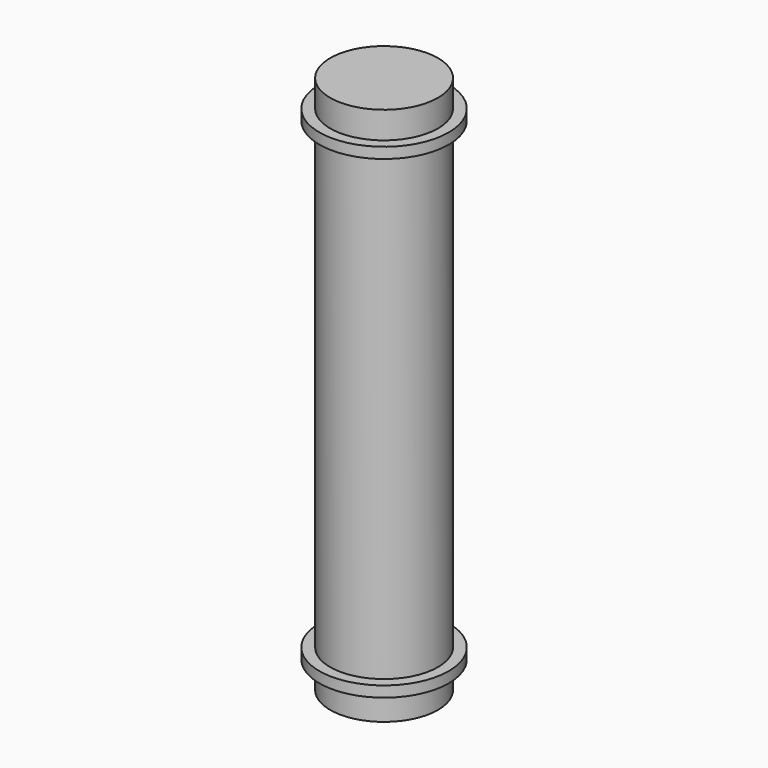
from build123d import *

# Parameters (mm, degrees)
F0_R     = 2.54
F1_DEPTH = 25.4
F5_R     = 3.048
F6_DEPTH = 0.508
F4_R     = 3.048
F7_DEPTH = 0.508


with BuildPart() as f1:
    # F0 (on Top) → F1 (new body)
    with BuildSketch(Plane.XY):
        Circle(F0_R)
    extrude(amount=F1_DEPTH)

    # F5 (on offset) → F6 (join)
    with BuildSketch(Plane.XY.offset(23.622)):
        Circle(F5_R)
    extrude(amount=F6_DEPTH)

    # F4 (on offset) → F7 (join)
    with BuildSketch(Plane.XY.offset(1.778)):
        Circle(F4_R)
    extrude(amount=-F7_DEPTH)


solid = f1.part
